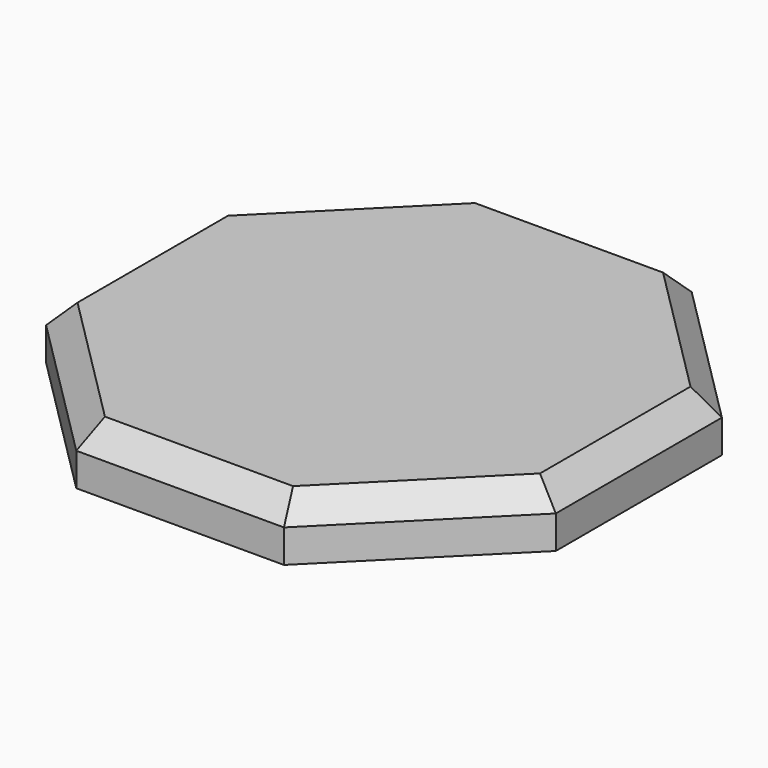
from build123d import *

# Parameters (mm, degrees)
F0_W      = 171.45
F0_H      = 171.45
F1_DEPTH  = 19.05
F3_DEPTH  = 127
F2_W      = 12.7
F2_H      = 17.1814748066
F4_DEPTH  = 203.2
F5_SIZE   = 5.08
F6_DEPTH  = 177.8
F7_SIZE   = 5.08
F8_DEPTH  = 177.8
F9_SIZE   = 5.08
F2_H_2    = 15.875
F10_DEPTH = 152.4
F11_SIZE  = 5.08
F12_SIZE  = 50.8
F13_SIZE  = 7.9375
F15_R     = 19.8103080262
F16_DEPTH = 355.6
F17_SIZE  = 5.08
F18_DEPTH = 25.4


with BuildPart() as f1:
    # F0 (on Top) → F1 (new body)
    with BuildSketch(Plane.XY):
        Rectangle(F0_W, F0_H)
    extrude(amount=F1_DEPTH)

    # F12
    f12_edges = [f1.edges().sort_by_distance(p)[0] for p in [
        (85.725, 85.725, 9.525),
        (-85.725, 85.725, 9.525),
        (85.725, -85.725, 9.525),
        (-85.725, -85.725, 9.525),
    ]]
    chamfer(f12_edges, length=F12_SIZE)

    # F13
    f13_edges = [f1.edges().sort_by_distance(p)[0] for p in [
        (-60.325, -60.325, 19.05),
        (0, -85.725, 19.05),
        (60.325, -60.325, 19.05),
        (85.725, 0, 19.05),
        (60.325, 60.325, 19.05),
        (0, 85.725, 19.05),
        (-60.325, 60.325, 19.05),
        (-85.725, 0, 19.05),
    ]]
    chamfer(f13_edges, length=F13_SIZE)


with BuildPart() as f3:
    # F2 (on face) → F3 (new body)
    with BuildSketch(Plane.XY.offset(19.05)):
        Polygon((-8.0955186849, -20.6375), (7.9502, -20.6375), (20.6375, -9.2439748066), (20.6375, 7.9375), (7.9502, 20.6375), (-7.8052744357, 20.6375), (-20.6375, 7.9375), (-20.6375, -7.9375), align=None)
    extrude(amount=F3_DEPTH)


with BuildPart() as f4:
    # F2 (on face) → F4 (new body)
    with BuildSketch(Plane.XY.offset(19.05)):
        with Locations((26.9875, -0.6532374033)):
            Rectangle(F2_W, F2_H)
    extrude(amount=F4_DEPTH)

    # F5
    f5_edges = [f4.edges().sort_by_distance(p)[0] for p in [
        (33.3375, -0.653237, 222.25),
    ]]
    chamfer(f5_edges, length=F5_SIZE)


with BuildPart() as f6:
    # F2 (on face) → F6 (new body)
    with BuildSketch(Plane.XY.offset(19.05)):
        Polygon((-8.1848246077, -33.3375), (7.9502, -33.3375), (7.9502, -20.6375), (-8.0955186849, -20.6375), align=None)
    extrude(amount=F6_DEPTH)

    # F7
    f7_edges = [f6.edges().sort_by_distance(p)[0] for p in [
        (-0.117312, -33.3375, 196.85),
    ]]
    chamfer(f7_edges, length=F7_SIZE)


with BuildPart() as f8:
    # F2 (on face) → F8 (new body)
    with BuildSketch(Plane.XY.offset(19.05)):
        Polygon((-7.8052744357, 20.6375), (7.9502, 20.6375), (7.9502, 33.3375), (-7.7159685129, 33.3375), align=None)
    extrude(amount=F8_DEPTH)

    # F9
    f9_edges = [f8.edges().sort_by_distance(p)[0] for p in [
        (0.117116, 33.3375, 196.85),
    ]]
    chamfer(f9_edges, length=F9_SIZE)


with BuildPart() as f10:
    # F2 (on face) → F10 (new body)
    with BuildSketch(Plane.XY.offset(19.05)):
        with Locations((-26.9875, 0)):
            Rectangle(F2_W, F2_H_2)
    extrude(amount=F10_DEPTH)

    # F11
    f11_edges = [f10.edges().sort_by_distance(p)[0] for p in [
        (-33.3375, 0, 171.45),
    ]]
    chamfer(f11_edges, length=F11_SIZE)


with BuildPart() as f16:
    # F15 (on face) → F16 (new body)
    with BuildSketch(Plane.XY.offset(146.05)):
        Circle(F15_R)
    extrude(amount=F16_DEPTH)

    # F17
    f17_edges = [f16.edges().sort_by_distance(p)[0] for p in [
        (-19.810308, 0, 501.65),
    ]]
    chamfer(f17_edges, length=F17_SIZE)


with BuildPart() as f18:
    # F14 (on face) → F18 (new body)
    with BuildSketch(Plane.XY.offset(146.05)):
        with BuildLine():
            Line((20.6375, -0.9718922405), (20.6375, 0.9718922405))
            ThreePointArc((20.6375, 0.9718922405), (19.6667538049, 6.3300691588), (17.3298010521, 11.2485099579))
            Line((17.3298010521, 11.2485099579), (11.2658427939, 17.3185382443))
            ThreePointArc((11.2658427939, 17.3185382443), (6.3399066616, 19.6635847266), (0.9718922405, 20.6375))
            Line((0.9718922405, 20.6375), (-0.9718922405, 20.6375))
            ThreePointArc((-0.9718922405, 20.6375), (-6.1694748401, 19.7177220027), (-10.9643715831, 17.5109547588))
            Line((-10.9643715831, 17.5109547588), (-17.3964546014, 11.1451490829))
            ThreePointArc((-17.3964546014, 11.1451490829), (-19.685507724, 6.2715043193), (-20.6375, 0.9718922405))
            Line((-20.6375, 0.9718922405), (-20.6375, -0.9718922405))
            ThreePointArc((-20.6375, -0.9718922405), (-19.6458745255, -6.3945754282), (-17.2555997462, -11.3620094251))
            Line((-17.2555997462, -11.3620094251), (-11.5771558663, -17.1119970437))
            ThreePointArc((-11.5771558663, -17.1119970437), (-6.5174339176, -19.6054593393), (-0.9718922405, -20.6375))
            Line((-0.9718922405, -20.6375), (0.9718922405, -20.6375))
            ThreePointArc((0.9718922405, -20.6375), (14.6090893073, -14.6090893073), (20.6375, -0.9718922405))
        make_face()
    extrude(amount=F18_DEPTH)


solid = f1.part
